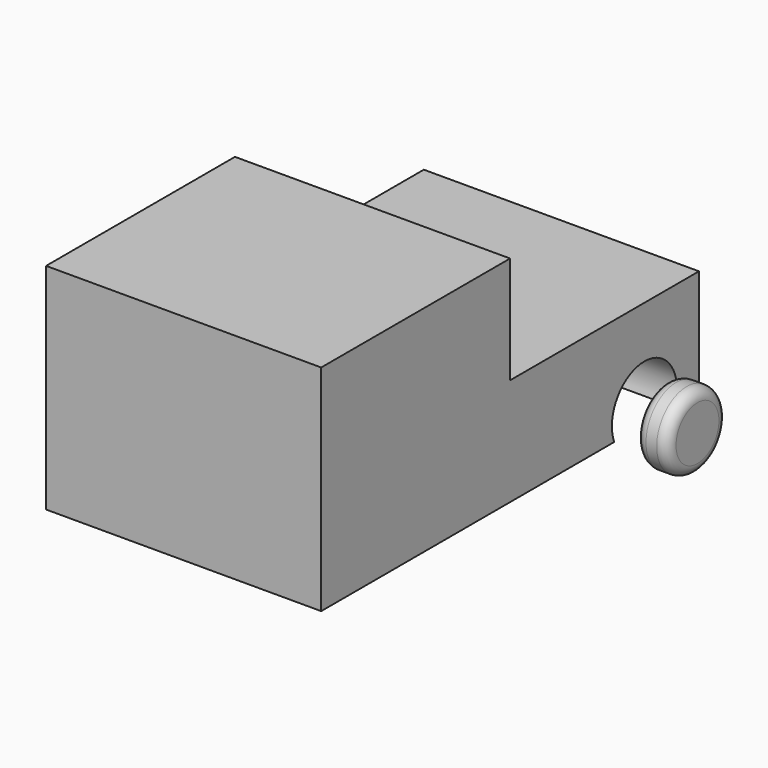
from build123d import *

# Parameters (mm, degrees)
F0_W     = 65.152568
F0_H     = 111.8159
F1_DEPTH = 25.4
F2_W     = 65.152568
F2_H     = 55.90795
F3_DEPTH = 25.4
F5_DEPTH = 76.2
F6_R     = 8.89
F7_DEPTH = 7.62
F8_R     = 2.54


with BuildPart() as f1:
    # F0 (on Top) → F1 (new body)
    with BuildSketch(Plane.XY):
        with Locations((-37.638815, -0.220109)):
            Rectangle(F0_W, F0_H)
    extrude(amount=F1_DEPTH)

    # F2 (on face) → F3 (join)
    with BuildSketch(Plane.XY.offset(25.4)):
        with Locations((-37.638815, -28.174084)):
            Rectangle(F2_W, F2_H)
    extrude(amount=F3_DEPTH)

    # F4 (on face) → F5 (cut)
    with BuildSketch(Plane(origin=(-70.215099, 0, 0), x_dir=(0, -1, 0), z_dir=(-1, 0, 0))):
        with BuildLine():
            ThreePointArc((-30.609912, 0), (-30.094369, 1.754719), (-29.920423, 3.575314))
            ThreePointArc((-29.920423, 3.575314), (-41.355577, 13.015928), (-48.460053, 0))
            Line((-48.460053, 0), (-30.609912, 0))
        make_face()
        with BuildLine():
            Line((-30.609912, 0), (-48.460053, 0))
            ThreePointArc((-48.460053, 0), (-39.534982, -6.039246), (-30.609912, 0))
        make_face()
    extrude(amount=-F5_DEPTH, mode=Mode.SUBTRACT)


with BuildPart() as f7:
    # F6 (on Right) → F7 (new body)
    with BuildSketch(Plane.YZ):
        with Locations((39.399695, 2.421211)):
            Circle(F6_R)
    extrude(amount=F7_DEPTH)

    # F8
    f8_edges = [f7.edges().sort_by_distance(p)[0] for p in [
        (7.62, 30.509695, 2.421211),
        (0, 30.509695, 2.421211),
    ]]
    fillet(f8_edges, radius=F8_R)


solid = Compound([f1.part, f7.part])
